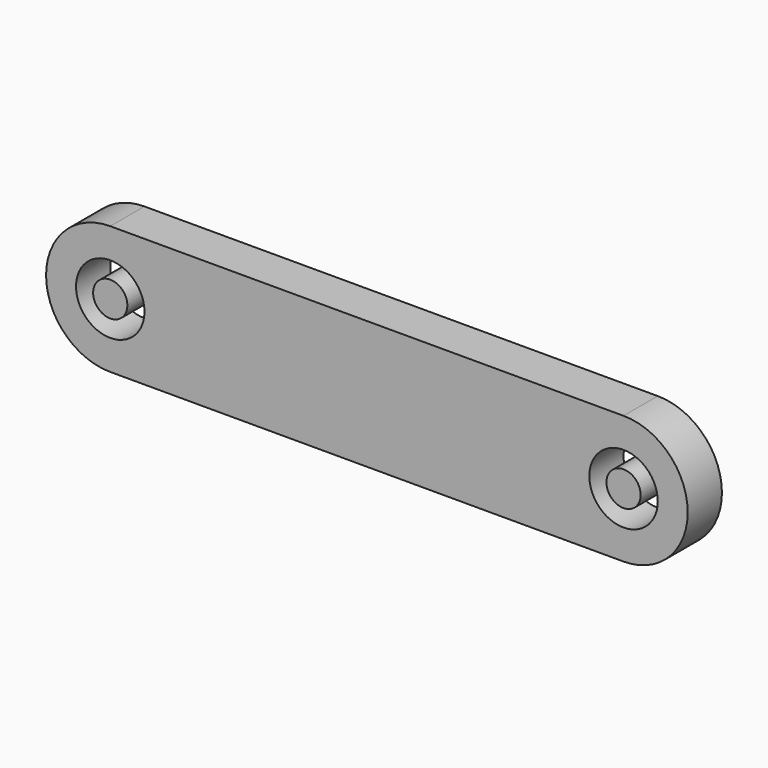
from build123d import *

# Parameters (mm, degrees)
F0_R     = 2
F1_DEPTH = 5
F0_R_2   = 4


with BuildPart() as f1:
    # F0 (on Front) → F1 (new body)
    with BuildSketch(Plane.XZ):
        Circle(F0_R)
    extrude(amount=F1_DEPTH)


with BuildPart() as f1b:
    # F0 (on Front) → F1, piece 2 (new body)
    with BuildSketch(Plane.XZ):
        with Locations((60, 0)):
            Circle(F0_R)
    extrude(amount=F1_DEPTH)


with BuildPart() as f1c:
    # F0 (on Front) → F1, piece 3 (new body)
    with BuildSketch(Plane.XZ):
        with BuildLine():
            Line((60, 7.5), (0, 7.5))
            ThreePointArc((0, 7.5), (-7.5, 0), (0, -7.5))
            Line((0, -7.5), (60, -7.5))
            ThreePointArc((60, -7.5), (67.5, 0), (60, 7.5))
        make_face()
        Circle(F0_R_2, mode=Mode.SUBTRACT)
        with Locations((60, 0)):
            Circle(F0_R_2, mode=Mode.SUBTRACT)
    extrude(amount=F1_DEPTH)


solid = Compound([f1.part, f1b.part, f1c.part])
